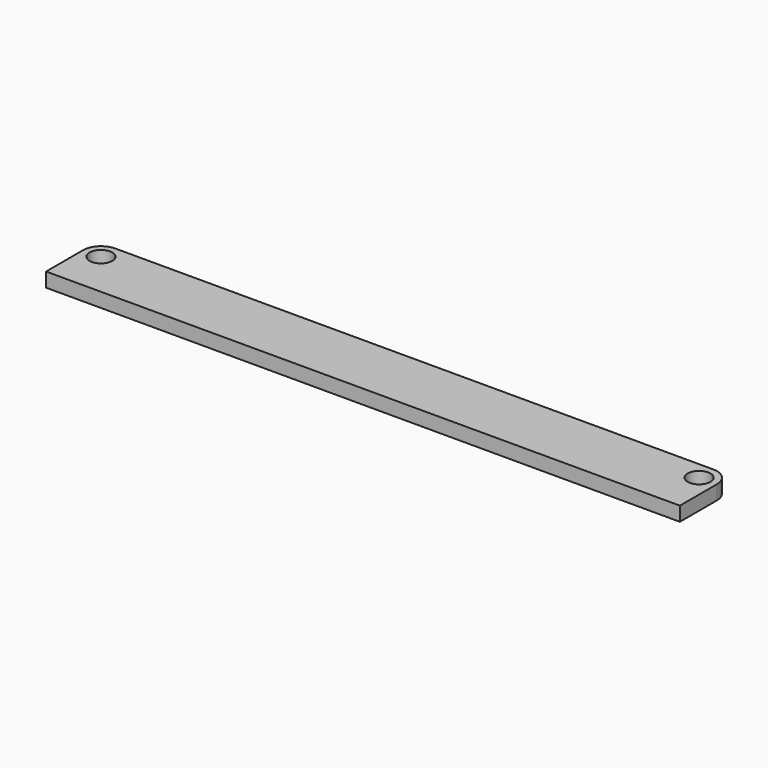
from build123d import *

# Parameters (mm, degrees)
F0_R     = 1.6
F1_DEPTH = 2


with BuildPart() as f1:
    # F0 (on Top) → F1 (new body)
    with BuildSketch(Plane.XY):
        with BuildLine():
            Line((-44.45, 23.5), (44.45, 23.5))
            Line((44.45, 23.5), (44.45, 27.5))
            Line((44.45, 27.5), (44.45, 30))
            ThreePointArc((44.45, 30), (43.717767, 31.767767), (41.95, 32.5))
            Line((41.95, 32.5), (-41.95, 32.5))
            ThreePointArc((-41.95, 32.5), (-43.717767, 31.767767), (-44.45, 30))
            Line((-44.45, 30), (-44.45, 27.5))
            Line((-44.45, 27.5), (-44.45, 23.5))
        make_face()
        with Locations((-41.95, 30)):
            Circle(F0_R, mode=Mode.SUBTRACT)
        with Locations((41.95, 30)):
            Circle(F0_R, mode=Mode.SUBTRACT)
    extrude(amount=F1_DEPTH)


solid = f1.part
